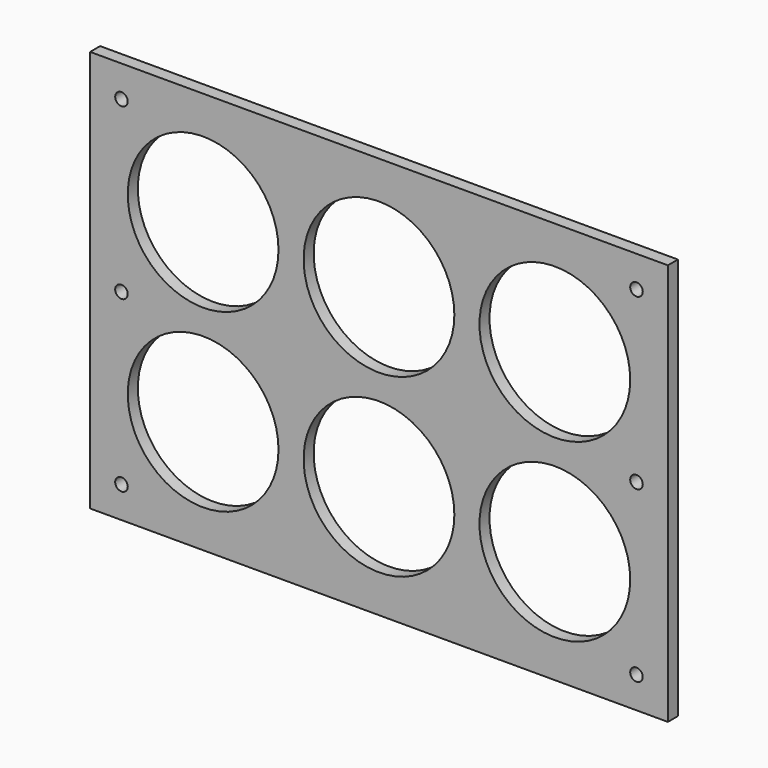
from build123d import *

# Parameters (mm, degrees)
F0_W     = 292.1
F0_H     = 203.2
F0_R     = 3.175
F0_R_2   = 38.1
F1_DEPTH = 6.35


with BuildPart() as f1:
    # F0 (on Front) → F1 (new body)
    with BuildSketch(Plane.XZ):
        with Locations((35.961051, 71.521053)):
            Rectangle(F0_W, F0_H)
        with Locations((-94.213949, -14.203947)):
            Circle(F0_R, mode=Mode.SUBTRACT)
        with Locations((-52.938949, 27.071053)):
            Circle(F0_R_2, mode=Mode.SUBTRACT)
        with Locations((166.136051, -14.203947)):
            Circle(F0_R, mode=Mode.SUBTRACT)
        with Locations((35.961051, 27.071053)):
            Circle(F0_R_2, mode=Mode.SUBTRACT)
        with Locations((124.861051, 27.071053)):
            Circle(F0_R_2, mode=Mode.SUBTRACT)
        with Locations((-94.213949, 71.521053)):
            Circle(F0_R, mode=Mode.SUBTRACT)
        with Locations((-52.938949, 115.971053)):
            Circle(F0_R_2, mode=Mode.SUBTRACT)
        with Locations((-94.213949, 157.246053)):
            Circle(F0_R, mode=Mode.SUBTRACT)
        with Locations((35.961051, 115.971053)):
            Circle(F0_R_2, mode=Mode.SUBTRACT)
        with Locations((166.136051, 71.521053)):
            Circle(F0_R, mode=Mode.SUBTRACT)
        with Locations((124.861051, 115.971053)):
            Circle(F0_R_2, mode=Mode.SUBTRACT)
        with Locations((166.136051, 157.246053)):
            Circle(F0_R, mode=Mode.SUBTRACT)
    extrude(amount=F1_DEPTH)


solid = f1.part
